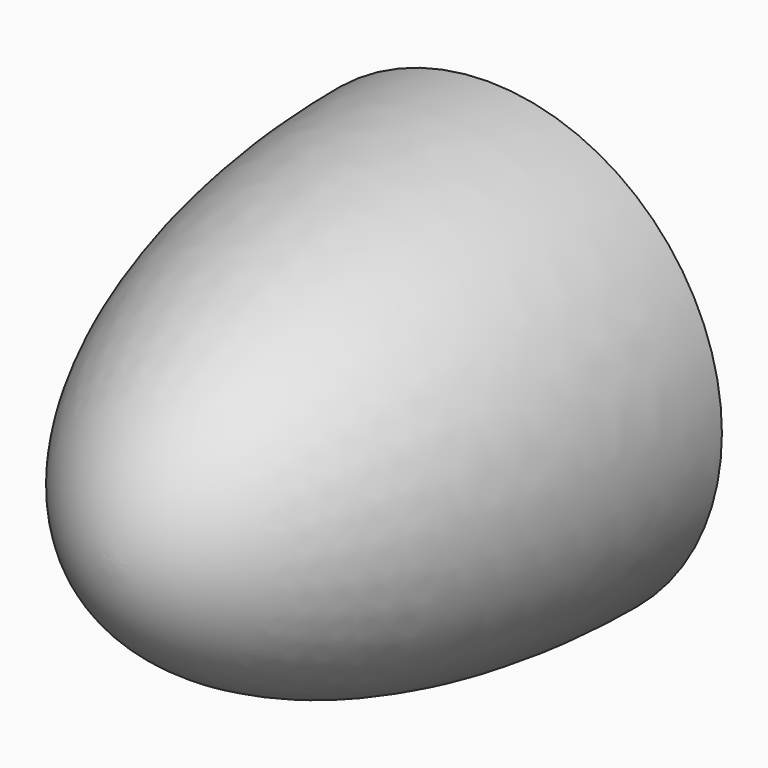
from build123d import *

# Parameters (mm, degrees)
F0_W     = 38.1
F0_H     = 38.1
F3_DEPTH = 35.56


with BuildPart() as f2:
    # F1 (on Top) → F2 (revolve)
    with BuildSketch(Plane.XY):
        with BuildLine():
            Line((0, 0), (0, -66.2381609123))
            add(Edge.make_bspline(
                [(0, -66.2381609123), (33.02, -66.2381609123), (33.02, 0)],
                knots=[0, 0, 0, 1.5707963268, 1.5707963268, 1.5707963268], degree=2, weights=[1, 0.7071067812, 1]))
            Line((33.02, 0), (0, 0))
        make_face()
    revolve(axis=Axis((0, 0, 0), (0, 1, 0)))

    # F0 (on Front) → F3 (cut)
    with BuildSketch(Plane.XZ):
        Rectangle(F0_W, F0_H)
    extrude(amount=F3_DEPTH, mode=Mode.SUBTRACT)


solid = f2.part
